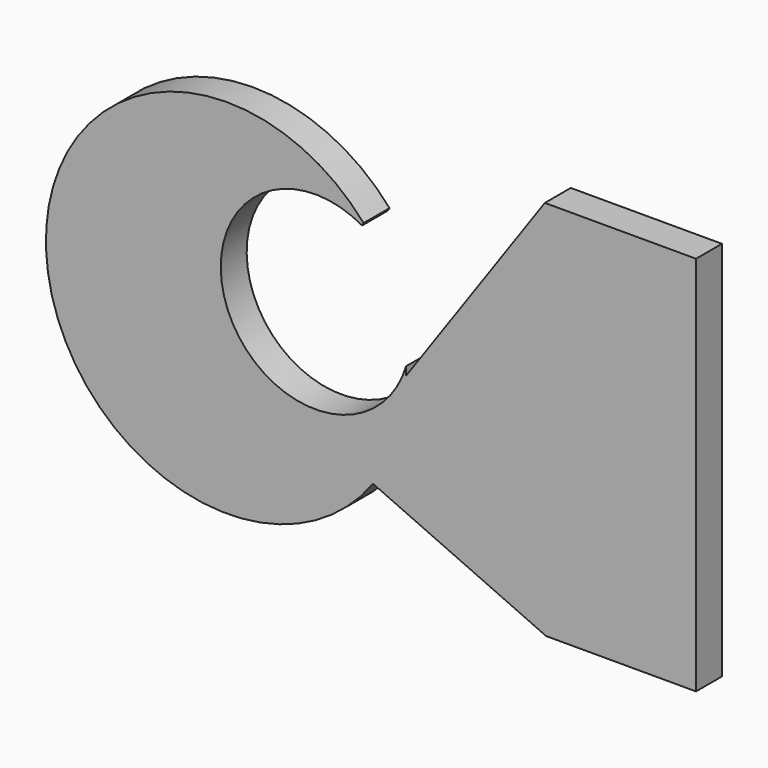
from build123d import *

# Parameters (mm, degrees)
F1_DEPTH = 3


with BuildPart() as f1:
    # F0 (on Front) → F1 (new body)
    with BuildSketch(Plane.XZ):
        with BuildLine():
            Line((0, -5.363059), (0, 29.916195))
            Line((0, 29.916195), (-14.000191, 29.916195))
            Line((-14.000191, 29.916195), (-26.837912, 11.658107))
            ThreePointArc((-26.837912, 11.658107), (-26.839461, 12.040159), (-26.849809, 12.422075))
            ThreePointArc((-26.849809, 12.422075), (-43.382305, 11.673262), (-30.923461, 22.566442))
            Line((-30.923461, 22.566442), (-30.782148, 22.815704))
            ThreePointArc((-30.782148, 22.815704), (-60.191077, 11.081451), (-29.905884, 1.841057))
            Line((-29.905884, 1.841057), (-13.883179, -5.363059))
            Line((-13.883179, -5.363059), (0, -5.363059))
        make_face()
        with BuildLine():
            Line((0, -5.363059), (0, 29.916195))
            Line((0, 29.916195), (-14.000191, 29.916195))
            Line((-14.000191, 29.916195), (-26.837912, 11.658107))
            ThreePointArc((-26.837912, 11.658107), (-26.839461, 12.040159), (-26.849809, 12.422075))
            ThreePointArc((-26.849809, 12.422075), (-43.382305, 11.673262), (-30.923461, 22.566442))
            Line((-30.923461, 22.566442), (-30.782148, 22.815704))
            ThreePointArc((-30.782148, 22.815704), (-60.191077, 11.081451), (-29.905884, 1.841057))
            Line((-29.905884, 1.841057), (-13.883179, -5.363059))
            Line((-13.883179, -5.363059), (0, -5.363059))
        make_face()
    extrude(amount=F1_DEPTH)


solid = f1.part
